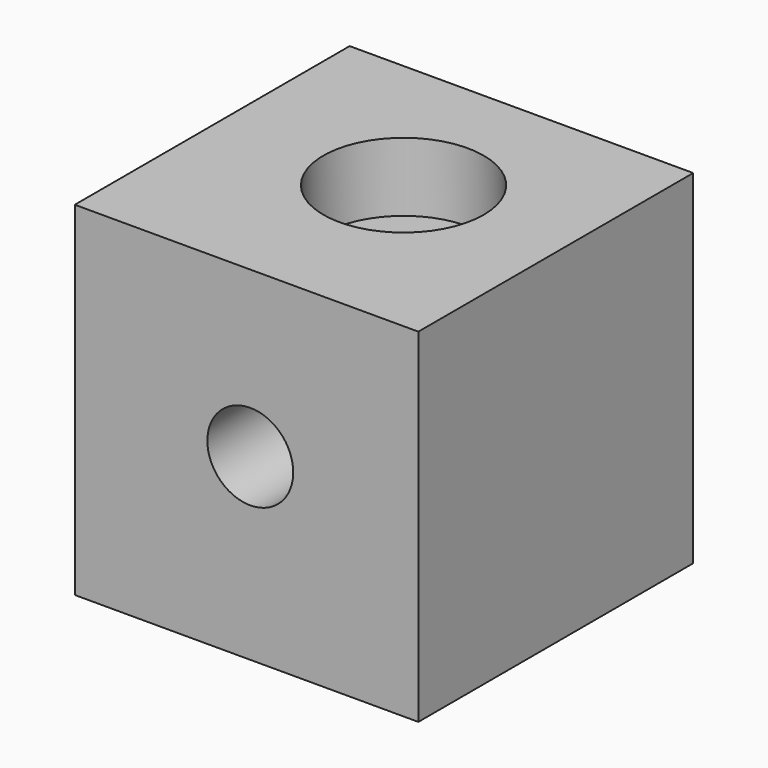
from build123d import *

# Parameters (mm, degrees)
F0_W           = 25.4
F0_H           = 25.4
F1_DEPTH       = 25.4
F3_D           = 4.7625
F3_DEPTH       = 4.7625
F3_TIP         = 1.4307993491
F4_R           = 5.9266984463
F8_DEPTH       = 5.08
F6_D           = 6.35
F6_CSINK_D     = 12.7
F6_CSINK_ANGLE = 90


with BuildPart() as f1:
    # F0 (on Front) → F1 (new body)
    with BuildSketch(Plane.XZ):
        with Locations((12.7, 12.7)):
            Rectangle(F0_W, F0_H)
    extrude(amount=F1_DEPTH)

    # F3
    with Locations(Plane(origin=(0, 0, 0), x_dir=(0, -1, 0), z_dir=(-1, 0, 0))):
        with Locations((2.8747059405, 21.8803212047), (22.1831314266, 21.8803212047), (22.1831314266, 3.0127977952), (2.8747059405, 4.4433097355)):
            Hole(F3_D / 2, depth=F3_DEPTH)
            with Locations((0, 0, -(F3_DEPTH + F3_TIP / 2))):  # 118° drill point
                Cone(0, F3_D / 2, F3_TIP, mode=Mode.SUBTRACT)

    # F4 (on face) → F8 (cut)
    with BuildSketch(Plane.XY.offset(25.4)):
        with Locations((13.2941789925, -11.6359144449)):
            Circle(F4_R)
    extrude(amount=-F8_DEPTH, mode=Mode.SUBTRACT)

    # F6 (through all)
    with Locations(Plane(origin=(0, 0, 0), x_dir=(-1, 0, 0), z_dir=(0, 1, 0))):
        with Locations((-12.975120917, 13.2276182994)):
            CounterSinkHole(F6_D / 2, F6_CSINK_D / 2, counter_sink_angle=F6_CSINK_ANGLE)


solid = f1.part
